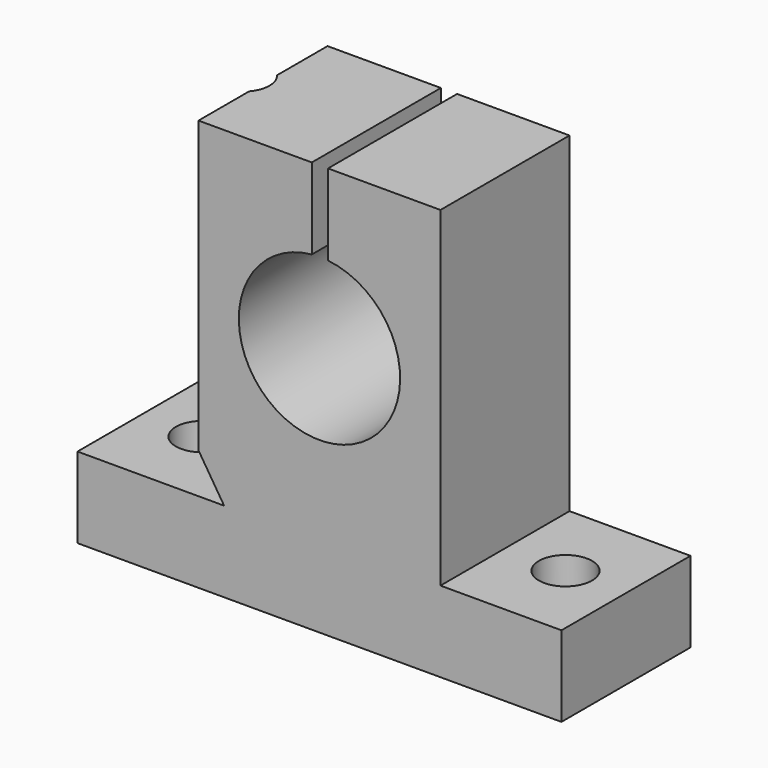
from build123d import *

# Parameters (mm, degrees)
F1_DEPTH = 20
F3_D     = 6.6
F4_D     = 6.6
F5_D     = 6.6


with BuildPart() as f1:
    # F0 (on Front) → F1 (new body)
    with BuildSketch(Plane.XZ):
        with BuildLine():
            Line((-30, -25.5), (30, -25.5))
            Line((30, -25.5), (30, -15.5))
            Line((30, -15.5), (15, -15.5))
            Line((15, -15.5), (15, 25.5))
            Line((15, 25.5), (1.057532, 25.5))
            Line((1.057532, 25.5), (1.057532, 15.443924))
            ThreePointArc((1.057532, 15.443924), (-0.053951, -4.499854), (-0.950175, 15.454756))
            Line((-0.950175, 15.454756), (-0.950175, 25.5))
            Line((-0.950175, 25.5), (-15, 25.5))
            Line((-15, 25.5), (-15, -10.487244))
            Line((-15, -10.487244), (-11.823214, -15.5))
            Line((-11.823214, -15.5), (-15, -15.5))
            Line((-15, -15.5), (-30, -15.5))
            Line((-30, -15.5), (-30, -25.5))
        make_face()
    extrude(amount=F1_DEPTH)

    # F3 (through all)
    with Locations(Plane(origin=(0, 0, -25.5), x_dir=(1, 0, 0), z_dir=(0, 0, -1))):
        with Locations((-22.5, 10)):
            Hole(F3_D / 2)

    # F4 (through all)
    with Locations(Plane(origin=(0, 0, -25.5), x_dir=(1, 0, 0), z_dir=(0, 0, -1))):
        with Locations((22.5, 10)):
            Hole(F4_D / 2)

    # F5 (through all)
    with Locations(Plane(origin=(0, 0, -25.5), x_dir=(1, 0, 0), z_dir=(0, 0, -1))):
        with Locations((-17.5, 10)):
            Hole(F5_D / 2)


solid = f1.part
